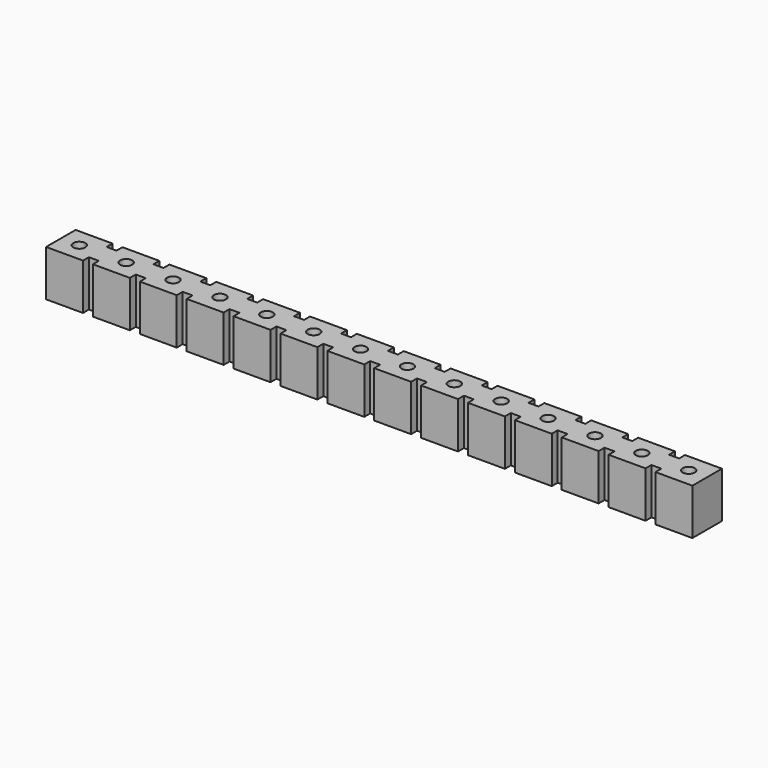
from build123d import *

# Parameters (mm, degrees)
F0_R     = 0.325
F0_W     = 0.54
F0_H     = 1.2
F1_DEPTH = 2.5


with BuildPart() as f1:
    # F0 (on Top) → F1 (new body)
    with BuildSketch(Plane.XY):
        Polygon((-71.271986, 0), (-69.271986, 0), (-69.271986, 0.4), (-69.271986, 1.6), (-69.271986, 2), (-71.271986, 2), align=None)
        with Locations((-70.271986, 1)):
            Circle(F0_R, mode=Mode.SUBTRACT)
        with Locations((-69.001986, 1)):
            Rectangle(F0_W, F0_H)
        Polygon((-68.731986, 1.6), (-68.731986, 0.4), (-68.731986, 0), (-66.731986, 0), (-66.731986, 0.4), (-66.731986, 1.6), (-66.731986, 2), (-68.731986, 2), align=None)
        with Locations((-67.731986, 1)):
            Circle(F0_R, mode=Mode.SUBTRACT)
        with Locations((-66.461986, 1)):
            Rectangle(F0_W, F0_H)
        Polygon((-66.191986, 1.6), (-66.191986, 0.4), (-66.191986, 0), (-64.191986, 0), (-64.191986, 0.4), (-64.191986, 1.6), (-64.191986, 2), (-66.191986, 2), align=None)
        with Locations((-65.191986, 1)):
            Circle(F0_R, mode=Mode.SUBTRACT)
        with Locations((-63.921986, 1)):
            Rectangle(F0_W, F0_H)
        Polygon((-63.651986, 1.6), (-63.651986, 0.4), (-63.651986, 0), (-61.651986, 0), (-61.651986, 0.4), (-61.651986, 1.6), (-61.651986, 2), (-63.651986, 2), align=None)
        with Locations((-62.651986, 1)):
            Circle(F0_R, mode=Mode.SUBTRACT)
        with Locations((-61.381986, 1)):
            Rectangle(F0_W, F0_H)
        Polygon((-61.111986, 1.6), (-61.111986, 0.4), (-61.111986, 0), (-59.111986, 0), (-59.111986, 0.4), (-59.111986, 1.6), (-59.111986, 2), (-61.111986, 2), align=None)
        with Locations((-60.111986, 1)):
            Circle(F0_R, mode=Mode.SUBTRACT)
        with Locations((-58.841986, 1)):
            Rectangle(F0_W, F0_H)
        Polygon((-58.571986, 1.6), (-58.571986, 0.4), (-58.571986, 0), (-56.571986, 0), (-56.571986, 0.4), (-56.571986, 1.6), (-56.571986, 2), (-58.571986, 2), align=None)
        with Locations((-57.571986, 1)):
            Circle(F0_R, mode=Mode.SUBTRACT)
        with Locations((-56.301986, 1)):
            Rectangle(F0_W, F0_H)
        Polygon((-56.031986, 1.6), (-56.031986, 0.4), (-56.031986, 0), (-54.031986, 0), (-54.031986, 0.4), (-54.031986, 1.6), (-54.031986, 2), (-56.031986, 2), align=None)
        with Locations((-55.031986, 1)):
            Circle(F0_R, mode=Mode.SUBTRACT)
        with Locations((-53.761986, 1)):
            Rectangle(F0_W, F0_H)
        Polygon((-53.491986, 1.6), (-53.491986, 0.4), (-53.491986, 0), (-51.491986, 0), (-51.491986, 0.4), (-51.491986, 1.6), (-51.491986, 2), (-53.491986, 2), align=None)
        with Locations((-52.491986, 1)):
            Circle(F0_R, mode=Mode.SUBTRACT)
        with Locations((-51.221986, 1)):
            Rectangle(F0_W, F0_H)
        Polygon((-50.951986, 1.6), (-50.951986, 0.4), (-50.951986, 0), (-48.951986, 0), (-48.951986, 0.4), (-48.951986, 1.6), (-48.951986, 2), (-50.951986, 2), align=None)
        with Locations((-49.951986, 1)):
            Circle(F0_R, mode=Mode.SUBTRACT)
        with Locations((-48.681986, 1)):
            Rectangle(F0_W, F0_H)
        Polygon((-48.411986, 1.6), (-48.411986, 0.4), (-48.411986, 0), (-46.411986, 0), (-46.411986, 0.4), (-46.411986, 1.6), (-46.411986, 2), (-48.411986, 2), align=None)
        with Locations((-47.411986, 1)):
            Circle(F0_R, mode=Mode.SUBTRACT)
        with Locations((-46.141986, 1)):
            Rectangle(F0_W, F0_H)
        Polygon((-45.871986, 1.6), (-45.871986, 0.4), (-45.871986, 0), (-43.871986, 0), (-43.871986, 0.4), (-43.871986, 1.6), (-43.871986, 2), (-45.871986, 2), align=None)
        with Locations((-44.871986, 1)):
            Circle(F0_R, mode=Mode.SUBTRACT)
        with Locations((-43.601986, 1)):
            Rectangle(F0_W, F0_H)
        Polygon((-43.331986, 1.6), (-43.331986, 0.4), (-43.331986, 0), (-41.331986, 0), (-41.331986, 0.4), (-41.331986, 1.6), (-41.331986, 2), (-43.331986, 2), align=None)
        with Locations((-42.331986, 1)):
            Circle(F0_R, mode=Mode.SUBTRACT)
        with Locations((-41.061986, 1)):
            Rectangle(F0_W, F0_H)
        Polygon((-40.791986, 1.6), (-40.791986, 0.4), (-40.791986, 0), (-38.791986, 0), (-38.791986, 0.4), (-38.791986, 1.6), (-38.791986, 2), (-40.791986, 2), align=None)
        with Locations((-39.791986, 1)):
            Circle(F0_R, mode=Mode.SUBTRACT)
        with Locations((-38.521986, 1)):
            Rectangle(F0_W, F0_H)
        Polygon((-38.251986, 1.6), (-38.251986, 0.4), (-38.251986, 0), (-36.251986, 0), (-36.251986, 0.4), (-36.251986, 1.6), (-36.251986, 2), (-38.251986, 2), align=None)
        with Locations((-37.251986, 1)):
            Circle(F0_R, mode=Mode.SUBTRACT)
    extrude(amount=F1_DEPTH)


solid = f1.part
